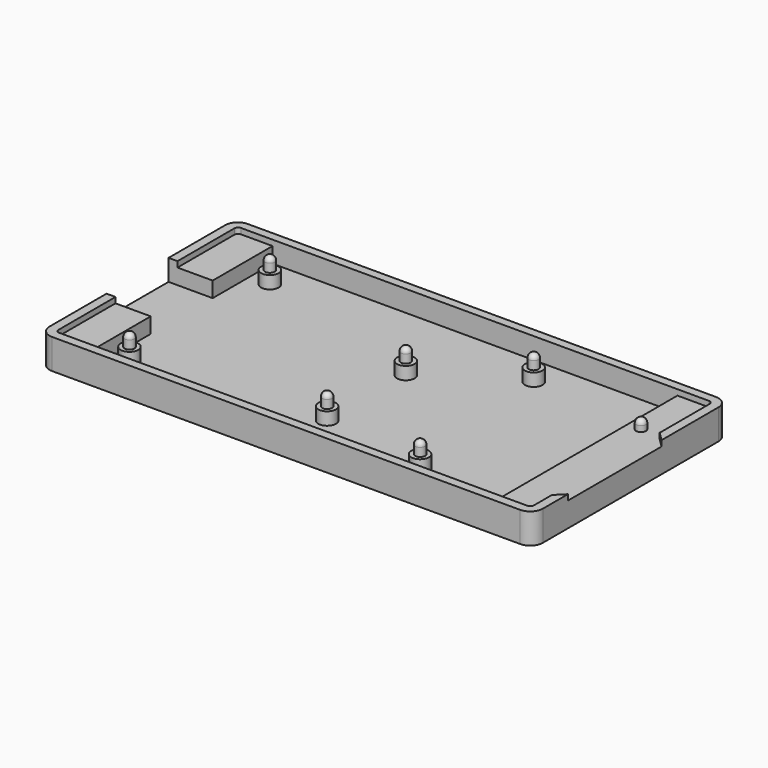
from build123d import *

# Parameters (mm, degrees)
EXTRUDE007_DEPTH = 1.6
SKETCH004_W      = 114.99
SKETCH004_H      = 64.5
EXTRUDE006_DEPTH = 6
BOX_W            = 27
BOX_H            = 22
BOX_DEPTH        = 7
EXTRUDE_DEPTH    = 8.54
SKETCH003_R      = 2.5
EXTRUDE003_DEPTH = 3.6
SKETCH002_R      = 1.4
EXTRUDE004_DEPTH = 6


with BuildPart() as circuit_solid:
    # Sketch → Extrude007 (new body)
    with BuildSketch(Plane.XY):
        with BuildLine():
            Line((0, 1.02), (0, 63.48))
            ThreePointArc((1.02, 64.5), (0.298751, 64.201249), (0, 63.48))
            Line((1.02, 64.5), (133.97, 64.5))
            ThreePointArc((134.99, 63.48), (134.691249, 64.201249), (133.97, 64.5))
            Line((134.99, 63.48), (134.99, 45.7))
            Line((134.99, 45.7), (137.53, 43.16))
            Line((137.53, 43.16), (137.53, 9.96))
            Line((137.53, 9.96), (134.99, 7.42))
            Line((134.99, 7.42), (134.99, 1.02))
            ThreePointArc((133.97, 0), (134.691249, 0.298751), (134.99, 1.02))
            Line((133.97, 0), (1.02, 0))
            ThreePointArc((0, 1.02), (0.298751, 0.298751), (1.02, 0))
        make_face()
    extrude(amount=EXTRUDE007_DEPTH)


with BuildPart() as circuit_solid_1:
    # Extrude007 placement: moved
    add(circuit_solid.part.moved(Location((0, 0, 6.94))))


with BuildPart() as gap_solid:
    # Sketch004 → Extrude006 (new body)
    with BuildSketch(Plane.XY):
        with Locations((67.495, 32.25)):
            Rectangle(SKETCH004_W, SKETCH004_H)
    extrude(amount=EXTRUDE006_DEPTH)


with BuildPart() as gap_solid_1:
    # Extrude006 placement: moved
    add(gap_solid.part.moved(Location((0, 0, 2.54))))


with BuildPart() as gaps_solid:
    # Box → Box (new body)
    with BuildSketch(Plane(origin=(-4, 21.25, 2.54), x_dir=(1, 0, 0), z_dir=(0, 0, 1))):
        with Locations((13.5, 11)):
            Rectangle(BOX_W, BOX_H)
    extrude(amount=BOX_DEPTH)

    # Fusion: union circuit_solid, gap_solid
    add(circuit_solid_1.part)
    add(gap_solid_1.part)


with BuildPart() as shell:
    # Sketch001 → Extrude (new body)
    with BuildSketch(Plane.XY):
        with BuildLine():
            Line((1.02, 66.94), (133.97, 66.94))
            ThreePointArc((137.53, 63.38), (136.4873, 65.8973), (133.97, 66.94))
            Line((137.53, 63.38), (137.53, 1.02))
            ThreePointArc((133.97, -2.54), (136.4873, -1.4973), (137.53, 1.02))
            Line((133.97, -2.54), (1.02, -2.54))
            ThreePointArc((-2.54, 1.02), (-1.4973, -1.4973), (1.02, -2.54))
            Line((-2.54, 1.02), (-2.54, 63.38))
            ThreePointArc((1.02, 66.94), (-1.4973, 65.8973), (-2.54, 63.38))
        make_face()
    extrude(amount=EXTRUDE_DEPTH)

    # Cut: cut gaps_solid
    add(gaps_solid.part, mode=Mode.SUBTRACT)


with BuildPart() as sphere004:
    # Sphere004 → Sphere004 (revolve)
    with BuildSketch(Plane(origin=(96.52, 7.62, 0), x_dir=(1, 0, 0), z_dir=(0, -1, 0))):
        with BuildLine():
            ThreePointArc((0, -1.4), (1.4, 0), (0, 1.4))
            Line((0, 1.4), (0, -1.4))
        make_face()
    revolve(axis=Axis((96.52, 7.62, 0), (0, 0, 1)))


with BuildPart() as sphere005:
    # Sphere005 → Sphere005 (revolve)
    with BuildSketch(Plane(origin=(90.17, 55.88, 0), x_dir=(1, 0, 0), z_dir=(0, -1, 0))):
        with BuildLine():
            ThreePointArc((0, -1.4), (1.4, 0), (0, 1.4))
            Line((0, 1.4), (0, -1.4))
        make_face()
    revolve(axis=Axis((90.17, 55.88, 0), (0, 0, 1)))


with BuildPart() as sphere002:
    # Sphere002 → Sphere002 (revolve)
    with BuildSketch(Plane(origin=(66.04, 12.7, 0), x_dir=(1, 0, 0), z_dir=(0, -1, 0))):
        with BuildLine():
            ThreePointArc((0, -1.4), (1.4, 0), (0, 1.4))
            Line((0, 1.4), (0, -1.4))
        make_face()
    revolve(axis=Axis((66.04, 12.7, 0), (0, 0, 1)))


with BuildPart() as sphere001:
    # Sphere001 → Sphere001 (revolve)
    with BuildSketch(Plane(origin=(15.24, 55.88, 0), x_dir=(1, 0, 0), z_dir=(0, -1, 0))):
        with BuildLine():
            ThreePointArc((0, -1.4), (1.4, 0), (0, 1.4))
            Line((0, 1.4), (0, -1.4))
        make_face()
    revolve(axis=Axis((15.24, 55.88, 0), (0, 0, 1)))


with BuildPart() as sphere006:
    # Sphere006 → Sphere006 (revolve)
    with BuildSketch(Plane(origin=(128.27, 46.35, 0), x_dir=(1, 0, 0), z_dir=(0, -1, 0))):
        with BuildLine():
            ThreePointArc((0, -1.4), (1.4, 0), (0, 1.4))
            Line((0, 1.4), (0, -1.4))
        make_face()
    revolve(axis=Axis((128.27, 46.35, 0), (0, 0, 1)))


with BuildPart() as sphere003:
    # Sphere003 → Sphere003 (revolve)
    with BuildSketch(Plane(origin=(66.04, 40.64, 0), x_dir=(1, 0, 0), z_dir=(0, -1, 0))):
        with BuildLine():
            ThreePointArc((0, -1.4), (1.4, 0), (0, 1.4))
            Line((0, 1.4), (0, -1.4))
        make_face()
    revolve(axis=Axis((66.04, 40.64, 0), (0, 0, 1)))


with BuildPart() as pivot_top_solids:
    # Sphere → Sphere (revolve)
    with BuildSketch(Plane(origin=(13.97, 7.62, 0), x_dir=(1, 0, 0), z_dir=(0, -1, 0))):
        with BuildLine():
            ThreePointArc((0, -1.4), (1.4, 0), (0, 1.4))
            Line((0, 1.4), (0, -1.4))
        make_face()
    revolve(axis=Axis((13.97, 7.62, 0), (0, 0, 1)))

    # Fusion001: union Sphere004, Sphere005, Sphere002, Sphere001, Sphere006, Sphere003
    add(sphere004.part)
    add(sphere005.part)
    add(sphere002.part)
    add(sphere001.part)
    add(sphere006.part)
    add(sphere003.part)


with BuildPart() as pivot_top_solids_1:
    # Fusion001 placement: moved
    add(pivot_top_solids.part.moved(Location((0, 0, 8.54))))


with BuildPart() as pivot_base_solids:
    # Sketch003 → Extrude003 (new body)
    with BuildSketch(Plane.XY):
        with Locations((15.24, 55.88)):
            Circle(SKETCH003_R)
        with Locations((13.97, 7.62)):
            Circle(SKETCH003_R)
        with Locations((66.04, 40.64)):
            Circle(SKETCH003_R)
        with Locations((66.04, 12.7)):
            Circle(SKETCH003_R)
        with Locations((90.17, 55.88)):
            Circle(SKETCH003_R)
        with Locations((96.52, 7.62)):
            Circle(SKETCH003_R)
        with Locations((128.27, 46.35)):
            Circle(SKETCH003_R)
    extrude(amount=EXTRUDE003_DEPTH)


with BuildPart() as pivot_base_solids_1:
    # Extrude003 placement: moved
    add(pivot_base_solids.part.moved(Location((0, 0, 2.54))))


with BuildPart() as fusion003:
    # Sketch002 → Extrude004 (new body)
    with BuildSketch(Plane.XY):
        with Locations((15.24, 55.88)):
            Circle(SKETCH002_R)
        with Locations((13.97, 7.62)):
            Circle(SKETCH002_R)
        with Locations((66.04, 40.64)):
            Circle(SKETCH002_R)
        with Locations((66.04, 12.7)):
            Circle(SKETCH002_R)
        with Locations((90.17, 55.88)):
            Circle(SKETCH002_R)
        with Locations((96.52, 7.62)):
            Circle(SKETCH002_R)
        with Locations((128.27, 46.35)):
            Circle(SKETCH002_R)
    extrude(amount=EXTRUDE004_DEPTH)


with BuildPart() as fusion003_1:
    # Extrude004 placement: moved
    add(fusion003.part.moved(Location((0, 0, 2.54))))

    # Fusion002: union pivot_top_solids, pivot_base_solids
    add(pivot_top_solids_1.part)
    add(pivot_base_solids_1.part)


with BuildPart() as fusion003_2:
    # Fusion002 placement: moved
    add(fusion003_1.part.moved(Location((0.5, 0.5, 0))))

    # Fusion003: union shell
    add(shell.part)


solid = fusion003_2.part
